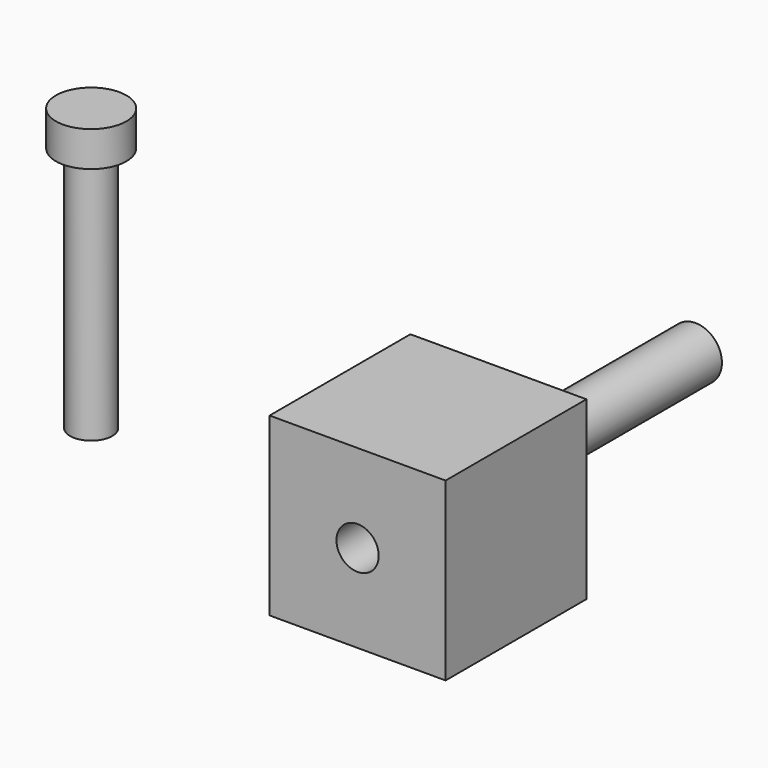
from build123d import *

# Parameters (mm, degrees)
F0_W     = 50
F0_H     = 50
F0_R     = 7.5
F1_DEPTH = 50
F2_DEPTH = 70
F3_R     = 6
F4_DEPTH = 15
F5_R     = 6
F6_DEPTH = 70
F7_R     = 10
F7_R_2   = 6
F8_DEPTH = 10


with BuildPart() as f1:
    # F0 (on Front) → F1 (new body)
    with BuildSketch(Plane.XZ):
        Rectangle(F0_W, F0_H)
        Circle(F0_R, mode=Mode.SUBTRACT)
        Circle(F0_R)
    extrude(amount=F1_DEPTH)

    # F0 (on Front) → F2 (join)
    with BuildSketch(Plane.XZ):
        Circle(F0_R)
    extrude(amount=-F2_DEPTH)

    # F3 (on face) → F4 (cut)
    with BuildSketch(Plane.XZ.offset(50)):
        Circle(F3_R)
    extrude(amount=-F4_DEPTH, mode=Mode.SUBTRACT)


with BuildPart() as f6:
    # F5 (on Top) → F6 (new body)
    with BuildSketch(Plane.XY):
        with Locations((-82.0956900716, -41.9910177588)):
            Circle(F5_R)
    extrude(amount=F6_DEPTH)

    # F7 (on face) → F8 (join)
    with BuildSketch(Plane.XY.offset(70)):
        with Locations((-82.0956900716, -41.9910177588)):
            Circle(F7_R)
        with Locations((-82.0956900716, -41.9910177588)):
            Circle(F7_R_2, mode=Mode.SUBTRACT)
        with Locations((-82.0956900716, -41.9910177588)):
            Circle(F7_R_2)
    extrude(amount=F8_DEPTH)


solid = Compound([f1.part, f6.part])
